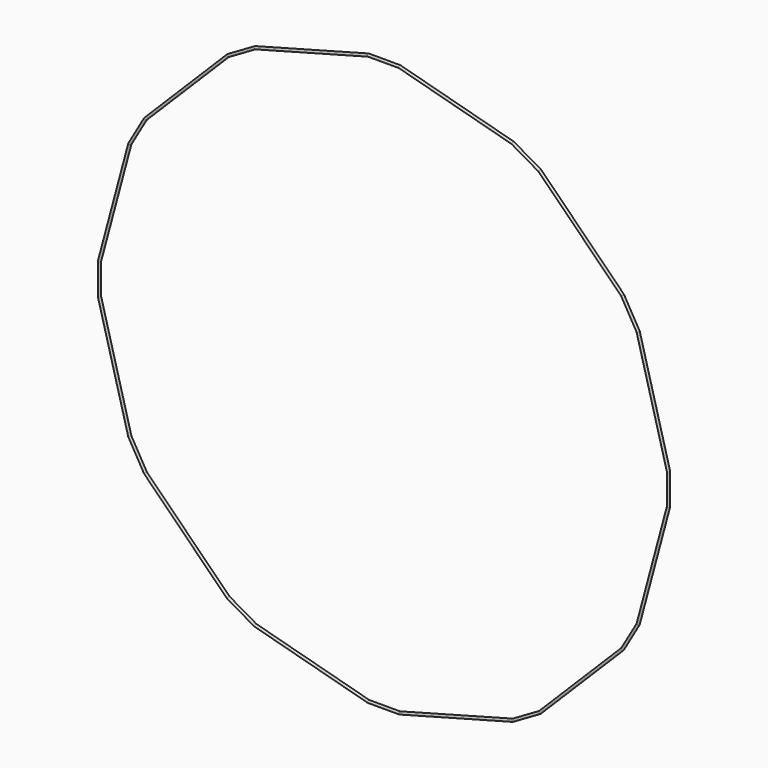
from build123d import *

# Parameters (mm, degrees)
F1_R = 3.175


with BuildPart() as f2:
    # F2: sweep along a path in F0
    with BuildLine(Plane.XZ) as f2_path:
        Line((-38.1, 698.881), (38.1, 698.881))
        Line((38.1, 698.881), (316.4449418371, 624.2986946097))
        Line((316.4449418371, 624.2986946097), (382.4360776054, 586.1986946097))
        Line((382.4360776054, 586.1986946097), (586.1987574488, 382.4360944431))
        Line((586.1987574488, 382.4360944431), (624.2987574488, 316.4449586747))
        Line((624.2987574488, 316.4449586747), (698.881, 38.1))
        Line((698.881, 38.1), (698.881, -38.1))
        Line((698.881, -38.1), (624.2986946097, -316.4449418371))
        Line((624.2986946097, -316.4449418371), (586.1986946097, -382.4360776054))
        Line((586.1986946097, -382.4360776054), (382.4360944431, -586.1987574488))
        Line((382.4360944431, -586.1987574488), (316.4449586747, -624.2987574488))
        Line((316.4449586747, -624.2987574488), (38.1, -698.881))
        Line((38.1, -698.881), (-38.1, -698.881))
        Line((-38.1, -698.881), (-316.4449418371, -624.2986946097))
        Line((-316.4449418371, -624.2986946097), (-382.4360776054, -586.1986946097))
        Line((-382.4360776054, -586.1986946097), (-586.1987574488, -382.4360944431))
        Line((-586.1987574488, -382.4360944431), (-624.2987574488, -316.4449586747))
        Line((-624.2987574488, -316.4449586747), (-698.881, -38.1))
        Line((-698.881, -38.1), (-698.881, 38.1))
        Line((-698.881, 38.1), (-624.2987574488, 316.4449586747))
        Line((-624.2987574488, 316.4449586747), (-586.1987574488, 382.4360944431))
        Line((-586.1987574488, 382.4360944431), (-382.4360776054, 586.1986946097))
        Line((-382.4360776054, 586.1986946097), (-316.4449418371, 624.2986946097))
        Line((-316.4449418371, 624.2986946097), (-38.1, 698.881))
    # F1 (on Right) → F2 (sweep)
    with BuildSketch(Plane.YZ):
        with Locations((0.9842328243, 701.8995941674)):
            Circle(F1_R)
    sweep(path=f2_path.line, transition=Transition.RIGHT)


solid = f2.part
